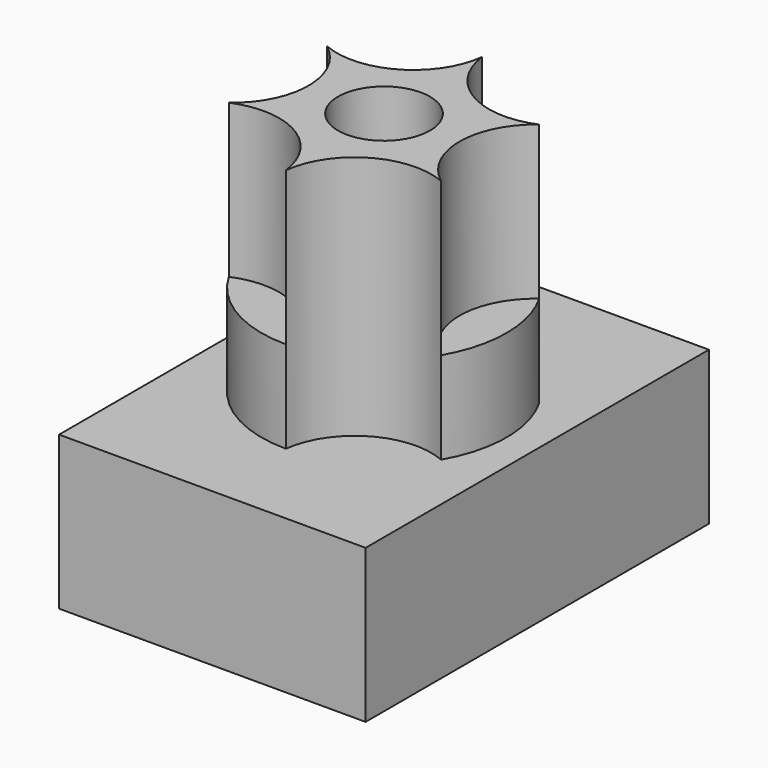
from build123d import *

# Parameters (mm, degrees)
F0_W      = 127
F0_H      = 63.5
F1_DEPTH  = 177.8
F2_R      = 50.8
F3_DEPTH  = 101.6
F5_DEPTH  = 63.5
F6_R      = 19.05
F7_DEPTH  = 25.4
F9_DEPTH  = 38.1
F11_DEPTH = 38.1


with BuildPart() as f1:
    # F0 (on Front) → F1 (new body)
    with BuildSketch(Plane.XZ):
        with Locations((-4.952263087, -14.3639492443)):
            Rectangle(F0_W, F0_H)
        with Locations((-4.952263087, -14.3639492443)):
            Rectangle(F0_W, F0_H)
    extrude(amount=F1_DEPTH)

    # F2 (on face) → F3 (join)
    with BuildSketch(Plane.XY.offset(17.3860507557)):
        with Locations((-4.952263087, -88.9)):
            Circle(F2_R)
    extrude(amount=F3_DEPTH)

    # F4 (on face) → F5 (cut)
    with BuildSketch(Plane.XY.offset(118.9860507557)):
        with BuildLine():
            ThreePointArc((-4.952263087, -38.1), (-30.352263087, -44.9059094878), (-48.9463535993, -63.5))
            ThreePointArc((-48.9463535993, -63.5), (-20.5993083432, -61.7985226281), (-4.952263087, -38.1))
        make_face()
        with BuildLine():
            ThreePointArc((39.0418274252, -63.5), (20.447736913, -44.9059094878), (-4.952263087, -38.1))
            ThreePointArc((-4.952263087, -38.1), (10.6947821691, -61.7985226281), (39.0418274252, -63.5))
        make_face()
        with BuildLine():
            ThreePointArc((45.847736913, -88.9), (44.1167688885, -75.7519925088), (39.0418274252, -63.5))
            ThreePointArc((39.0418274252, -63.5), (26.3418274252, -88.9), (39.0418274252, -114.3))
            ThreePointArc((39.0418274252, -114.3), (44.1167688885, -102.0480074912), (45.847736913, -88.9))
        make_face()
        with BuildLine():
            ThreePointArc((39.0418274252, -114.3), (10.6947821691, -116.0014773719), (-4.952263087, -139.7))
            ThreePointArc((-4.952263087, -139.7), (20.447736913, -132.8940905122), (39.0418274252, -114.3))
        make_face()
        with BuildLine():
            ThreePointArc((-4.952263087, -139.7), (-20.5993083432, -116.0014773719), (-48.9463535993, -114.3))
            ThreePointArc((-48.9463535993, -114.3), (-30.352263087, -132.8940905122), (-4.952263087, -139.7))
        make_face()
        with BuildLine():
            ThreePointArc((-48.9463535993, -114.3), (-36.2463535993, -88.9), (-48.9463535993, -63.5))
            ThreePointArc((-48.9463535993, -63.5), (-55.752263087, -88.9), (-48.9463535993, -114.3))
        make_face()
    extrude(amount=-F5_DEPTH, mode=Mode.SUBTRACT)

    # F6 (on face) → F7 (cut)
    with BuildSketch(Plane.XY.offset(118.9860507557)):
        with Locations((-4.952263087, -88.9)):
            Circle(F6_R)
    extrude(amount=-F7_DEPTH, mode=Mode.SUBTRACT)

    # F8 (on face) → F9 (cut)
    with BuildSketch(Plane.XY.offset(55.4860507557)):
        with BuildLine():
            ThreePointArc((-4.952263087, -139.7), (20.447736913, -132.8940905122), (39.0418274252, -114.3))
            ThreePointArc((39.0418274252, -114.3), (10.6947821691, -116.0014773719), (-4.952263087, -139.7))
        make_face()
    extrude(amount=-F9_DEPTH, mode=Mode.SUBTRACT)

    # F10 (on face) → F11 (cut)
    with BuildSketch(Plane.XY.offset(55.4860507557)):
        with BuildLine():
            Line((-4.952263087, -38.1), (39.0418274252, -63.5))
            ThreePointArc((39.0418274252, -63.5), (20.447736913, -44.9059094878), (-4.952263087, -38.1))
        make_face()
    extrude(amount=-F11_DEPTH, mode=Mode.SUBTRACT)


solid = f1.part
